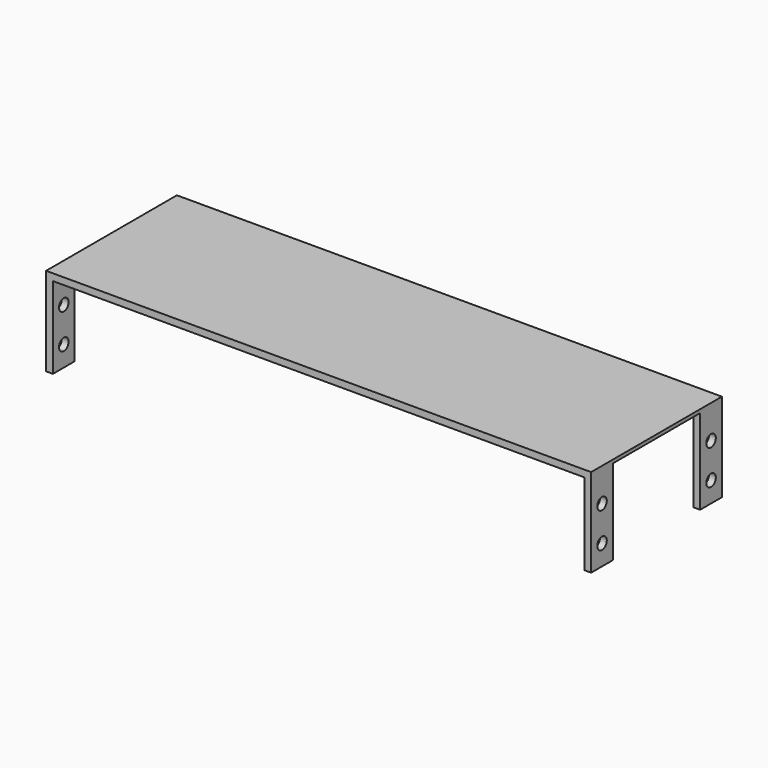
from build123d import *

# Parameters (mm, degrees)
F0_W          = 508
F0_H          = 6.35
F1_DEPTH      = 76.2
F2_W          = 6.35
F2_H          = 76.2
F3_DEPTH      = 76.2
F4_W          = 101.6
F4_H          = 79.375
F5_DEPTH      = 254.001
F5_DEPTH_BACK = 254.001
F6_R          = 5.55625
F7_DEPTH      = 508.001


with BuildPart() as f1:
    # F0 (on Front) → F1 (new body, symmetric)
    with BuildSketch(Plane.XZ):
        Rectangle(F0_W, F0_H)
    extrude(amount=F1_DEPTH, both=True)

    # F2 (on Front) → F3 (join, symmetric)
    with BuildSketch(Plane.XZ):
        with Locations((-250.825, -41.275)):
            Rectangle(F2_W, F2_H)
        with Locations((250.825, -41.275)):
            Rectangle(F2_W, F2_H)
    extrude(amount=F3_DEPTH, both=True)

    # F4 (on Right) → F5 (cut, two sides)
    with BuildSketch(Plane.YZ) as f5_sk:
        with Locations((0, -39.6875)):
            Rectangle(F4_W, F4_H)
    extrude(amount=-F5_DEPTH, mode=Mode.SUBTRACT)
    extrude(f5_sk.sketch, amount=F5_DEPTH_BACK, mode=Mode.SUBTRACT)

    # F6 (on face) → F7 (cut, through all)
    with BuildSketch(Plane.YZ.offset(254)):
        with Locations((-63.5, -27.813)):
            Circle(F6_R)
        with Locations((-63.5, -60.325)):
            Circle(F6_R)
        with Locations((63.5, -27.813)):
            Circle(F6_R)
        with Locations((63.5, -60.325)):
            Circle(F6_R)
    extrude(amount=-F7_DEPTH, mode=Mode.SUBTRACT)


solid = f1.part
